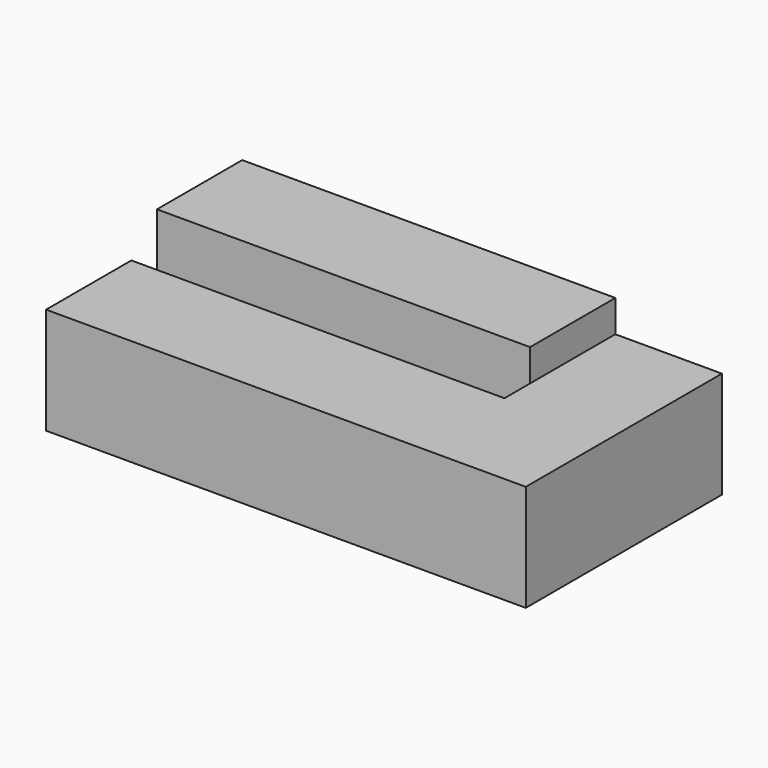
from build123d import *

# Parameters (mm, degrees)
F0_W     = 14
F0_H     = 4
F1_DEPTH = 5.2
F2_DEPTH = 4


with BuildPart() as f1:
    # F0 (on Top) → F1 (new body)
    with BuildSketch(Plane.XY):
        with Locations((-7, 3.2)):
            Rectangle(F0_W, F0_H)
    extrude(amount=F1_DEPTH)

    # F0 (on Top) → F2 (join)
    with BuildSketch(Plane.XY):
        Polygon((0, 1.2), (0, 0), (-14, 0), (-14, -4), (4, -4), (4, 5.2), (0, 5.2), align=None)
    extrude(amount=F2_DEPTH)


solid = f1.part
